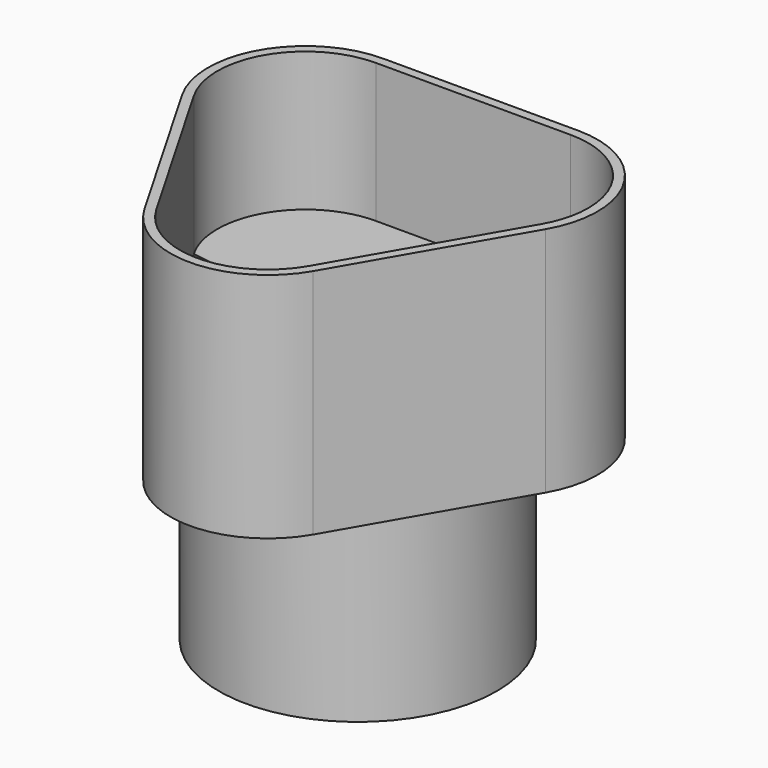
from build123d import *

# Parameters (mm, degrees)
F0_R      = 15
F1_DEPTH  = 20
F2_R      = 14
F3_DEPTH  = 20
F5_DEPTH  = 25
F6_R      = 9.5
F7_DEPTH  = 23
F9_DEPTH  = 15
F10_R     = 13.5
F11_DEPTH = 5


with BuildPart() as f1:
    # F0 (on Top) → F1 (new body)
    with BuildSketch(Plane.XY):
        Circle(F0_R)
    extrude(amount=F1_DEPTH)

    # F2 (on face) → F3 (cut)
    with BuildSketch(Plane.XY.offset(20)):
        Circle(F2_R)
    extrude(amount=-F3_DEPTH, mode=Mode.SUBTRACT)

    # F4 (on face) → F5 (join)
    with BuildSketch(Plane.XY.offset(20)):
        with BuildLine():
            Line((10.500212, 16.5623), (-10.499788, 16.5623))
            ThreePointArc((-10.499788, 16.5623), (-19.593055, 11.3123), (-19.593055, 0.8123))
            Line((-19.593055, 0.8123), (-9.093055, -17.374233))
            ThreePointArc((-9.093055, -17.374233), (0.000212, -22.624233), (9.093478, -17.374233))
            Line((9.093478, -17.374233), (19.593478, 0.8123))
            ThreePointArc((19.593478, 0.8123), (19.593478, 11.3123), (10.500212, 16.5623))
        make_face()
    extrude(amount=F5_DEPTH)

    # F6 (on face) → F7 (cut)
    with BuildSketch(Plane.XY.offset(45)):
        with Locations((10.500212, 6.0623)):
            Circle(F6_R)
        with Locations((0.000212, -12.124233)):
            Circle(F6_R)
        with Locations((-10.499788, 6.0623)):
            Circle(F6_R)
    extrude(amount=-F7_DEPTH, mode=Mode.SUBTRACT)

    # F8 (on face) → F9 (cut)
    with BuildSketch(Plane.XY.offset(45)):
        with BuildLine():
            ThreePointArc((18.727453, 1.3123), (19.676507, 3.603519), (20.000212, 6.0623))
            ThreePointArc((20.000212, 6.0623), (17.217726, 12.779814), (10.500212, 15.5623))
            ThreePointArc((10.500212, 15.5623), (2.27297, 1.3123), (18.727453, 1.3123))
        make_face()
        with BuildLine():
            ThreePointArc((18.727453, 1.3123), (2.27297, 1.3123), (10.500212, 15.5623))
            Line((10.500212, 15.5623), (-10.499788, 15.5623))
            ThreePointArc((-10.499788, 15.5623), (-3.782274, 12.779814), (-0.999788, 6.0623))
            ThreePointArc((-0.999788, 6.0623), (-8.041007, -3.113995), (-18.72703, 1.3123))
            Line((-18.72703, 1.3123), (-8.22703, -16.874233))
            ThreePointArc((-8.22703, -16.874233), (-2.458569, -2.947938), (9.500212, -12.124233))
            ThreePointArc((9.500212, -12.124233), (9.176507, -14.583014), (8.227453, -16.874233))
            Line((8.227453, -16.874233), (18.727453, 1.3123))
        make_face()
        with BuildLine():
            ThreePointArc((-0.999788, 6.0623), (-3.782274, 12.779814), (-10.499788, 15.5623))
            ThreePointArc((-10.499788, 15.5623), (-18.72703, 10.8123), (-18.72703, 1.3123))
            ThreePointArc((-18.72703, 1.3123), (-8.041007, -3.113995), (-0.999788, 6.0623))
        make_face()
        with BuildLine():
            ThreePointArc((-8.22703, -16.874233), (0.000212, -21.624233), (8.227453, -16.874233))
            ThreePointArc((8.227453, -16.874233), (9.176507, -14.583014), (9.500212, -12.124233))
            ThreePointArc((9.500212, -12.124233), (-2.458569, -2.947938), (-8.22703, -16.874233))
        make_face()
    extrude(amount=-F9_DEPTH, mode=Mode.SUBTRACT)

    # F10 (on face) → F11 (cut)
    with BuildSketch(Plane(origin=(0, 0, 20), x_dir=(1, 0, 0), z_dir=(0, 0, -1))):
        Circle(F10_R)
    extrude(amount=-F11_DEPTH, mode=Mode.SUBTRACT)


solid = f1.part
